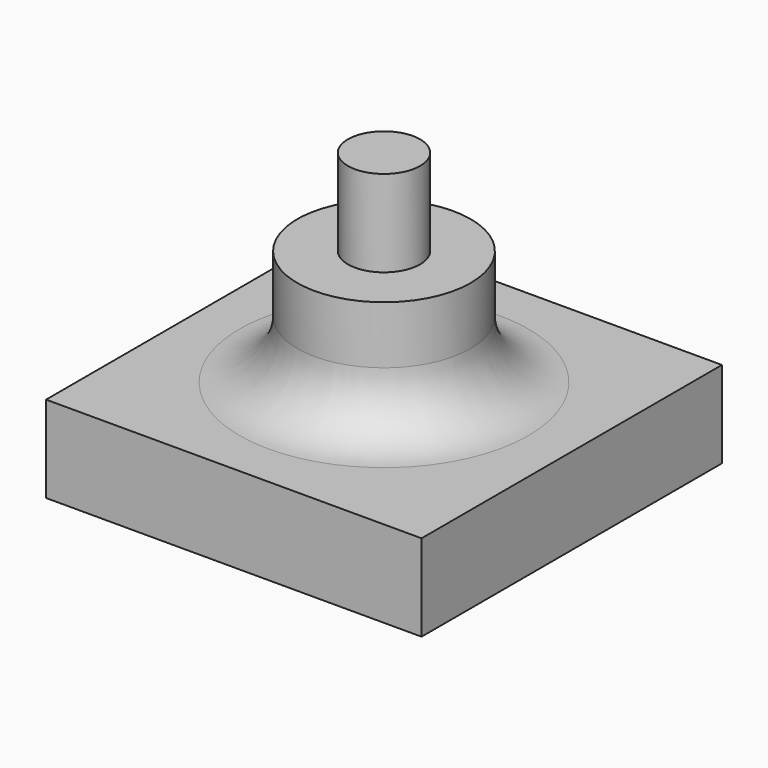
from build123d import *

# Parameters (mm, degrees)
F0_W     = 13
F0_H     = 13
F0_R     = 3
F0_R_2   = 1.25
F1_DEPTH = 3
F2_DEPTH = 7
F3_DEPTH = 10
F4_R     = 2


with BuildPart() as f1:
    # F0 (on Top) → F1 (new body)
    with BuildSketch(Plane.XY):
        with Locations((6.5, 6.5)):
            Rectangle(F0_W, F0_H)
        with Locations((6.5, 6.5)):
            Circle(F0_R, mode=Mode.SUBTRACT)
        with Locations((6.5, 6.5)):
            Circle(F0_R)
        with Locations((6.5, 6.5)):
            Circle(F0_R_2, mode=Mode.SUBTRACT)
        with Locations((6.5, 6.5)):
            Circle(F0_R_2)
    extrude(amount=F1_DEPTH)

    # F0 (on Top) → F2 (join)
    with BuildSketch(Plane.XY):
        with Locations((6.5, 6.5)):
            Circle(F0_R)
        with Locations((6.5, 6.5)):
            Circle(F0_R_2, mode=Mode.SUBTRACT)
        with Locations((6.5, 6.5)):
            Circle(F0_R_2)
    extrude(amount=F2_DEPTH)

    # F0 (on Top) → F3 (join)
    with BuildSketch(Plane.XY):
        with Locations((6.5, 6.5)):
            Circle(F0_R_2)
    extrude(amount=F3_DEPTH)

    # F4
    f4_edges = [f1.edges().sort_by_distance(p)[0] for p in [
        (3.5, 6.5, 3),
    ]]
    fillet(f4_edges, radius=F4_R)


solid = f1.part
